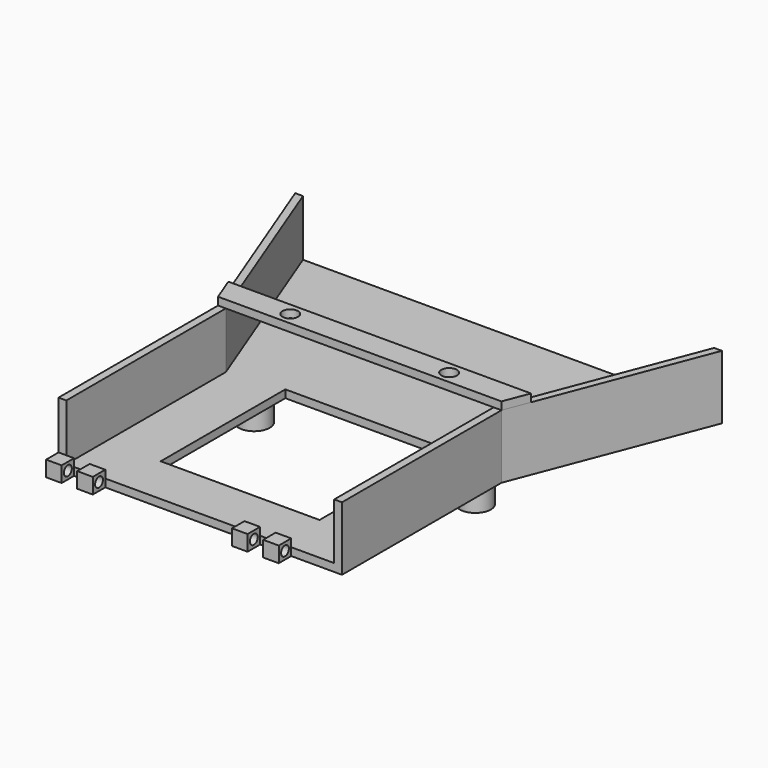
from build123d import *

# Parameters (mm, degrees)
F0_W      = 16.1925
F0_H      = 15.875
F1_DEPTH  = 0.3175
F3_DEPTH  = 5.715
F5_DEPTH  = 0.79375
F6_R      = 0.79375
F7_DEPTH  = 0.79375
F8_DEPTH  = 0.3175
F9_W      = 1.5875
F9_H      = 0.635
F10_DEPTH = 1.5875
F11_DEPTH = 0.3175
F12_W     = 1.5875
F12_H     = 1.5875
F13_DEPTH = 0.79375
F14_DEPTH = 0.15875
F15_R     = 0.5
F16_DEPTH = 25.4
F17_R     = 1.5875
F18_DEPTH = 3.175


with BuildPart() as f1:
    # F0 (on Top) → F1 (new body)
    with BuildSketch(Plane.XY):
        Polygon((-25.671613648, 46.3675076752), (-18.369113648, 27.4050211887), (-18.369113648, 7.0850211887), (10.523386352, 7.0850211887), (10.523386352, 27.4050211887), (17.825886352, 46.3675076752), align=None)
        with Locations((-3.922863648, 20.1025211887)):
            Rectangle(F0_W, F0_H, mode=Mode.SUBTRACT)
    extrude(amount=F1_DEPTH)

    # F2 (on face) → F3 (join)
    with BuildSketch(Plane.XY.offset(0.3175)):
        Polygon((17.825886352, 46.3675076752), (17.032136352, 46.3675076752), (9.729636352, 27.4050211887), (9.729636352, 7.0850211887), (10.523386352, 7.0850211887), (10.523386352, 27.4050211887), align=None)
        Polygon((-24.877863648, 46.3675076752), (-25.671613648, 46.3675076752), (-18.369113648, 27.4050211887), (-18.369113648, 7.0850211887), (-17.575363648, 7.0850211887), (-17.575363648, 27.4050211887), align=None)
    extrude(amount=F3_DEPTH)

    # F4 (on face) → F5 (join)
    with BuildSketch(Plane.XY.offset(6.0325)):
        Polygon((-19.3472738705, 29.9450211887), (-18.369113648, 27.4050211887), (10.523386352, 27.4050211887), (11.5015465745, 29.9450211887), align=None)
    extrude(amount=F5_DEPTH)

    # F6 (on face) → F7 (cut)
    with BuildSketch(Plane.XY.offset(6.82625)):
        with Locations((-12.019113648, 28.6750211887)):
            Circle(F6_R)
        with Locations((4.173386352, 28.6750211887)):
            Circle(F6_R)
    extrude(amount=-F7_DEPTH, mode=Mode.SUBTRACT)

    # F8 (add): a face of the model
    f8_faces = [f1.faces().sort_by_distance(p)[0] for p in [
        (-3.922863648, 30.216271867, 0),
    ]]
    extrude(f8_faces, amount=F8_DEPTH)

    # F9 (on face) → F10 (join)
    with BuildSketch(Plane.XZ.offset(-7.0850211887)):
        Polygon((-17.575363648, 0.3175), (-18.369113648, 0.3175), (-18.369113648, -0.3175), (-16.781613648, -0.3175), (-16.781613648, 0.3175), align=None)
        with Locations((-14.400363648, 0)):
            Rectangle(F9_W, F9_H)
        with Locations((1.379386352, 0)):
            Rectangle(F9_W, F9_H)
        with Locations((4.554386352, 0)):
            Rectangle(F9_W, F9_H)
    extrude(amount=F10_DEPTH)

    # F11 (add): a face of the model
    f11_faces = [f1.faces().sort_by_distance(p)[0] for p in [
        (-3.9482759262, 29.9813117116, -0.3175),
    ]]
    extrude(f11_faces, amount=F11_DEPTH)

    # F12 (on face) → F13 (join)
    with BuildSketch(Plane.XY.offset(0.3175)):
        with Locations((-17.575363648, 6.2912711887)):
            Rectangle(F12_W, F12_H)
        with Locations((-14.400363648, 6.2912711887)):
            Rectangle(F12_W, F12_H)
        with Locations((1.379386352, 6.2912711887)):
            Rectangle(F12_W, F12_H)
        with Locations((4.554386352, 6.2912711887)):
            Rectangle(F12_W, F12_H)
    extrude(amount=F13_DEPTH)

    # F14 (cut): a face of the model
    f14_faces = [f1.faces().sort_by_distance(p)[0] for p in [
        (-3.9482759262, 29.9813117116, -0.635),
    ]]
    extrude(f14_faces, amount=-F14_DEPTH, mode=Mode.SUBTRACT)

    # F15 (on face) → F16 (cut)
    with BuildSketch(Plane(origin=(-18.369113648, 0, 0), x_dir=(0, -1, 0), z_dir=(-1, 0, 0))):
        with Locations((-6.2912711887, 0.3175)):
            Circle(F15_R)
    extrude(amount=-F16_DEPTH, mode=Mode.SUBTRACT)

    # F17 (on face) → F18 (join)
    with BuildSketch(Plane(origin=(0, 0, -0.47625), x_dir=(1, 0, 0), z_dir=(0, 0, -1))):
        with Locations((-15.194113648, -28.0400211887)):
            Circle(F17_R)
        with Locations((7.348386352, -28.0400211887)):
            Circle(F17_R)
    extrude(amount=F18_DEPTH)


solid = f1.part
